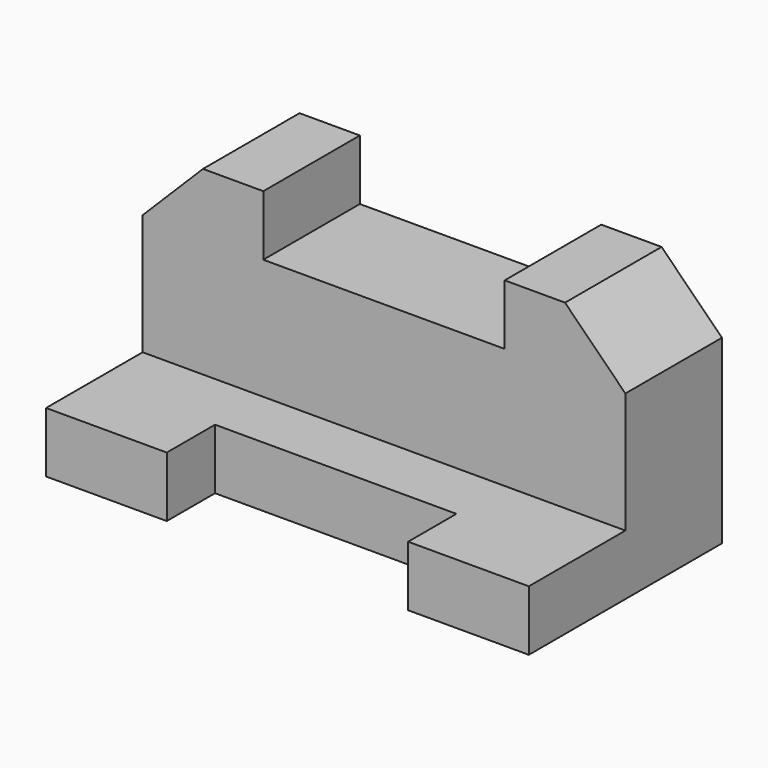
from build123d import *

# Parameters (mm, degrees)
F0_W     = 203.2
F0_H     = 101.6
F1_DEPTH = 25.4
F2_W     = 203.2
F2_H     = 50.8
F3_DEPTH = 76.2
F4_W     = 101.6
F4_H     = 25.4
F5_DEPTH = 25.4
F6_W     = 101.6
F6_H     = 25.4
F7_DEPTH = 50.8
F9_DEPTH = 50.8


with BuildPart() as f1:
    # F0 (on Top) → F1 (new body)
    with BuildSketch(Plane.XY):
        with Locations((-29.36075, 33.243849)):
            Rectangle(F0_W, F0_H)
    extrude(amount=F1_DEPTH)

    # F2 (on face) → F3 (join)
    with BuildSketch(Plane.XY.offset(25.4)):
        with Locations((-29.36075, 58.643849)):
            Rectangle(F2_W, F2_H)
    extrude(amount=F3_DEPTH)

    # F4 (on face) → F5 (cut, through all)
    with BuildSketch(Plane.XY.offset(25.4)):
        with Locations((-29.36075, -4.856151)):
            Rectangle(F4_W, F4_H)
    extrude(amount=-F5_DEPTH, mode=Mode.SUBTRACT)

    # F6 (on face) → F7 (cut, through all)
    with BuildSketch(Plane.XZ.offset(-33.243849)):
        with Locations((-29.36075, 88.9)):
            Rectangle(F6_W, F6_H)
    extrude(amount=-F7_DEPTH, mode=Mode.SUBTRACT)

    # F8 (on face) → F9 (cut, through all)
    with BuildSketch(Plane.XZ.offset(-33.243849)):
        Polygon((-130.96075, 76.2), (-105.56075, 101.6), (-130.96075, 101.6), align=None)
        Polygon((72.23925, 101.6), (46.83925, 101.6), (72.23925, 76.2), align=None)
    extrude(amount=-F9_DEPTH, mode=Mode.SUBTRACT)


solid = f1.part
